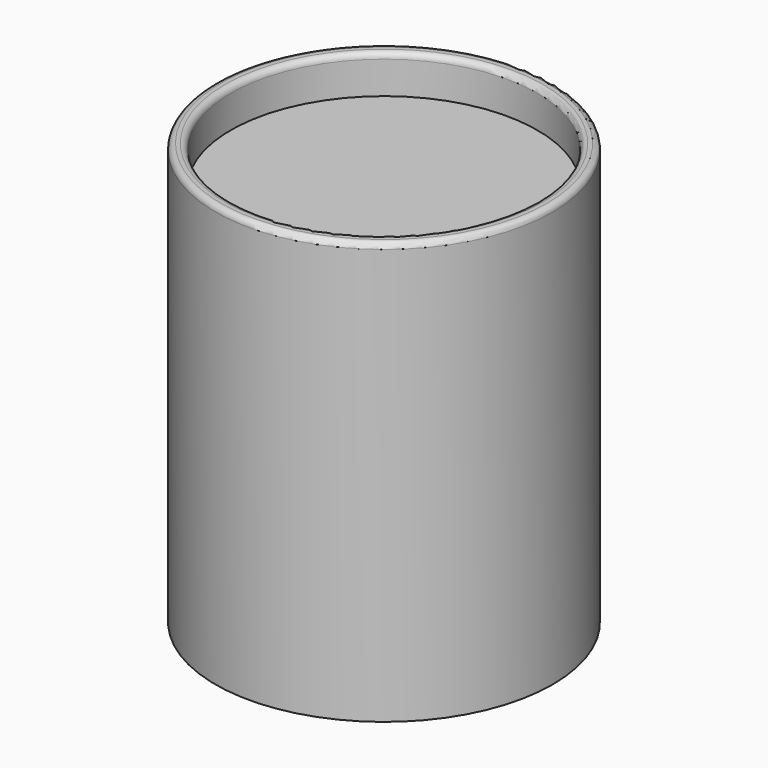
from build123d import *

# Parameters (mm, degrees)
F0_R     = 20
F0_R_2   = 18
F1_DEPTH = 50
F0_R_3   = 22
F2_DEPTH = 55
F3_DEPTH = 40
F4_R     = 0.75
F5_R     = 0.75
F6_R     = 5


with BuildPart() as f1:
    # F0 (on Top) → F1 (new body)
    with BuildSketch(Plane.XY):
        Circle(F0_R)
        Circle(F0_R_2, mode=Mode.SUBTRACT)
        Circle(F0_R_2)
    extrude(amount=F1_DEPTH)

    # F0 (on Top) → F2 (join)
    with BuildSketch(Plane.XY):
        Circle(F0_R_3)
        Circle(F0_R, mode=Mode.SUBTRACT)
    extrude(amount=F2_DEPTH)

    # F0 (on Top) → F3 (cut)
    with BuildSketch(Plane.XY):
        Circle(F0_R_2)
    extrude(amount=F3_DEPTH, mode=Mode.SUBTRACT)

    # F4
    f4_edges = [f1.edges().sort_by_distance(p)[0] for p in [
        (-20, 0, 55),
    ]]
    fillet(f4_edges, radius=F4_R)

    # F5
    f5_edges = [f1.edges().sort_by_distance(p)[0] for p in [
        (-22, 0, 55),
    ]]
    fillet(f5_edges, radius=F5_R)

    # F6
    f6_edges = [f1.edges().sort_by_distance(p)[0] for p in [
        (-18, 0, 40),
    ]]
    fillet(f6_edges, radius=F6_R)


solid = f1.part
